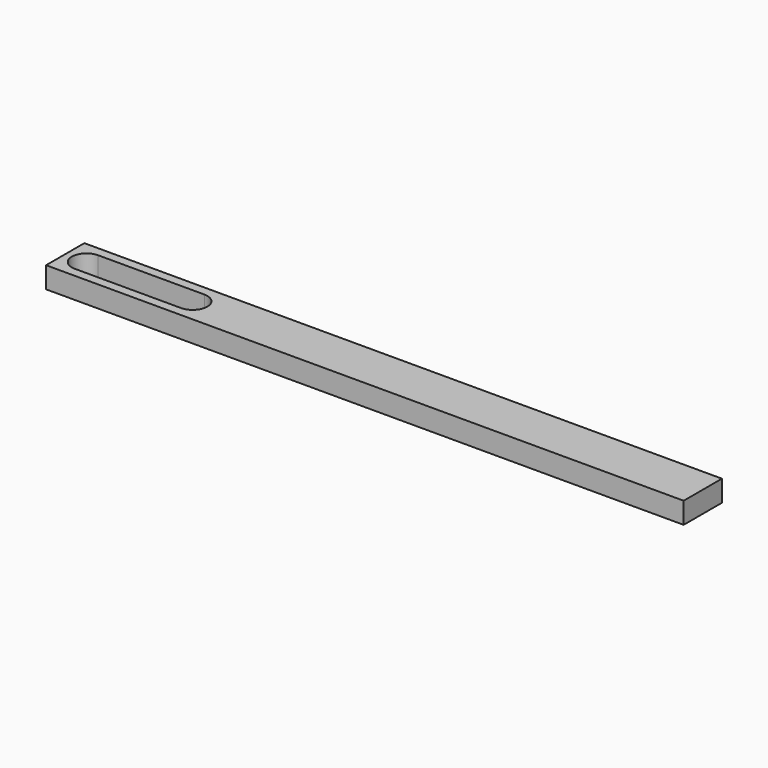
from build123d import *

# Parameters (mm, degrees)
F0_W     = 120
F0_H     = 9
F1_DEPTH = 4


with BuildPart() as f1:
    # F0 (on Top) → F1 (new body)
    with BuildSketch(Plane.XY):
        with Locations((-60, 4.5)):
            Rectangle(F0_W, F0_H)
        with BuildLine():
            ThreePointArc((-116, 1.75), (-118.75, 4.5), (-116, 7.25))
            Line((-116, 7.25), (-96, 7.25))
            ThreePointArc((-96, 7.25), (-94.055456, 6.444544), (-93.25, 4.5))
            ThreePointArc((-93.25, 4.5), (-94.055456, 2.555456), (-96, 1.75))
            Line((-96, 1.75), (-116, 1.75))
        make_face(mode=Mode.SUBTRACT)
    extrude(amount=F1_DEPTH)


solid = f1.part
